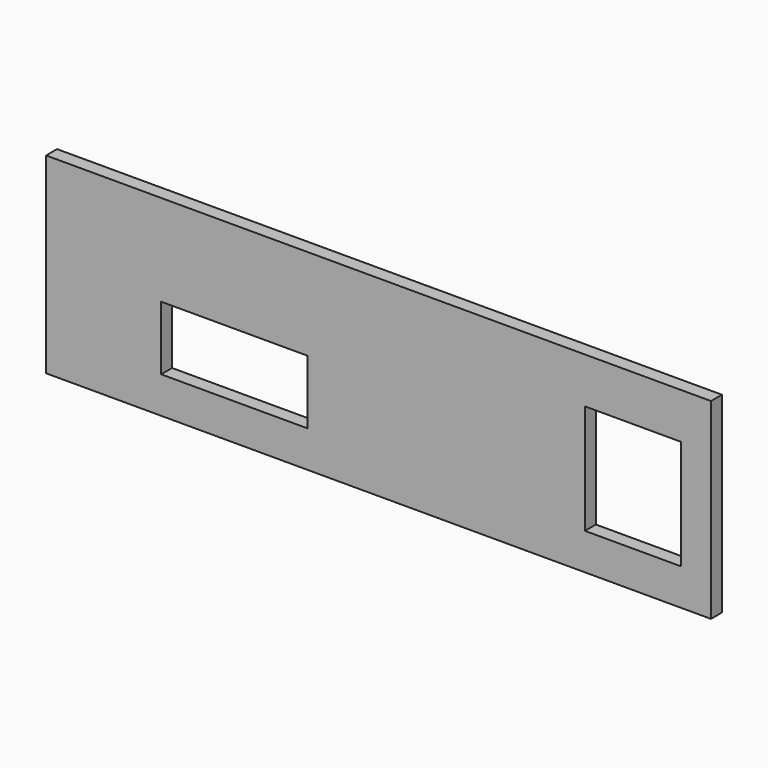
from build123d import *

# Parameters (mm, degrees)
BOX041_W     = 16
BOX041_H     = 20
BOX041_DEPTH = 7
BOX040_W     = 10.5
BOX040_H     = 20
BOX040_DEPTH = 12
BOX038_W     = 72.8
BOX038_H     = 1.5
BOX038_DEPTH = 21


with BuildPart() as hdmi_hole:
    # Box041 → Box041 (new body)
    with BuildSketch(Plane(origin=(12.6, 45, -16), x_dir=(1, 0, 0), z_dir=(0, 0, 1))):
        with Locations((8, 10)):
            Rectangle(BOX041_W, BOX041_H)
    extrude(amount=BOX041_DEPTH)


with BuildPart() as fusion011:
    # Box040 → Box040 (new body)
    with BuildSketch(Plane(origin=(59, 45, -16), x_dir=(1, 0, 0), z_dir=(0, 0, 1))):
        with Locations((5.25, 10)):
            Rectangle(BOX040_W, BOX040_H)
    extrude(amount=BOX040_DEPTH)

    # Fusion011: union hdmi hole
    add(hdmi_hole.part)


with BuildPart() as cut005:
    # Box038 → Box038 (new body)
    with BuildSketch(Plane(origin=(0, 59.2, -20), x_dir=(1, 0, 0), z_dir=(0, 0, 1))):
        with Locations((36.4, 0.75)):
            Rectangle(BOX038_W, BOX038_H)
    extrude(amount=BOX038_DEPTH)

    # Cut005: cut Fusion011
    add(fusion011.part, mode=Mode.SUBTRACT)


solid = cut005.part
